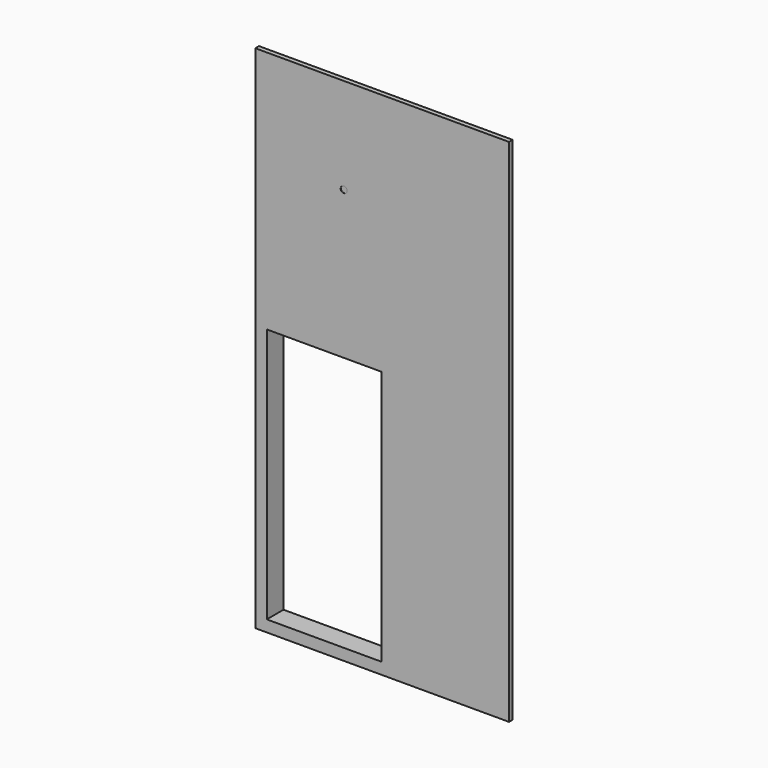
from build123d import *

# Parameters (mm, degrees)
F0_W     = 994
F0_H     = 2000
F1_DEPTH = 18
F2_R     = 12.5
F3_DEPTH = 1
F4_W     = 450
F4_H     = 1000
F5_DEPTH = 82
F6_W     = 471.055174
F6_H     = 1022.924457
F6_W_2   = 450
F6_H_2   = 1000
F7_DEPTH = 82


with BuildPart() as f1:
    # F0 (on Front) → F1 (new body)
    with BuildSketch(Plane.XZ):
        Rectangle(F0_W, F0_H)
    extrude(amount=-F1_DEPTH)

    # F2 (on face) → F3 (cut)
    with BuildSketch(Plane.XZ):
        with Locations((-150, 625)):
            Circle(F2_R)
    extrude(amount=-F3_DEPTH, mode=Mode.SUBTRACT)

    # F4 (on face) → F5 (cut)
    with BuildSketch(Plane.XZ):
        with Locations((-227, -455)):
            Rectangle(F4_W, F4_H)
    extrude(amount=-F5_DEPTH, mode=Mode.SUBTRACT)

    # F6 (on face) → F7 (join)
    with BuildSketch(Plane.XZ):
        with Locations((-229.790854, -457.599444)):
            Rectangle(F6_W, F6_H)
        with Locations((-227, -455)):
            Rectangle(F6_W_2, F6_H_2, mode=Mode.SUBTRACT)
    extrude(amount=-F7_DEPTH)


solid = f1.part
